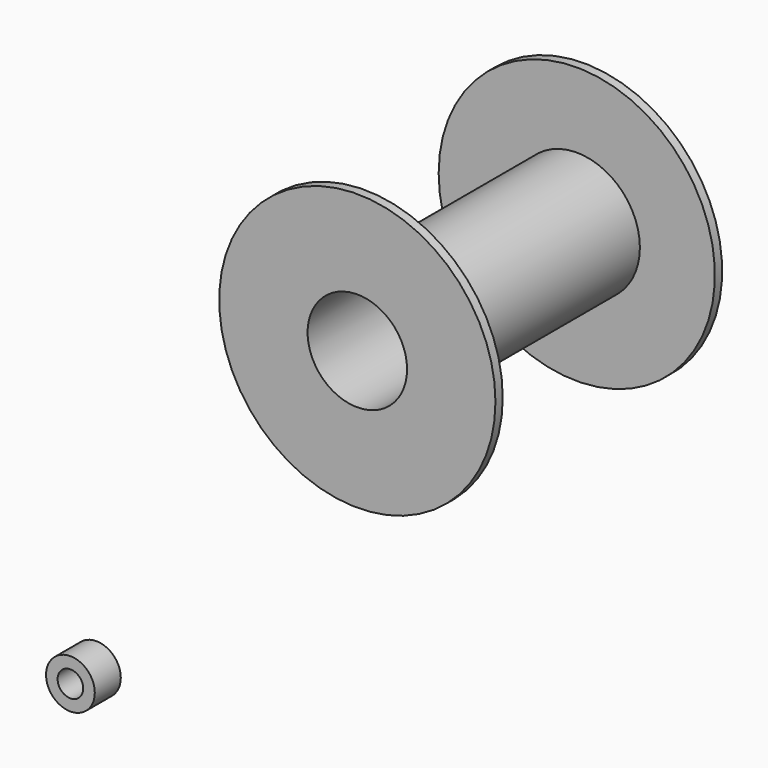
from build123d import *

# Parameters (mm, degrees)
F0_R     = 4.7625
F0_R_2   = 2.5
F1_DEPTH = 6.35
F2_R     = 10.8585
F2_R_2   = 9.7155
F3_DEPTH = 55.372
F4_R     = 26.9875
F4_R_2   = 9.7155
F5_DEPTH = 1.778
F6_R     = 26.9875
F6_R_2   = 9.7155
F7_DEPTH = 1.778
F8_R     = 12.328577
F8_R_2   = 10.8585
F9_DEPTH = 51.816


with BuildPart() as f1:
    # F0 (on Front) → F1 (new body)
    with BuildSketch(Plane.XZ):
        Circle(F0_R)
        Circle(F0_R_2, mode=Mode.SUBTRACT)
    extrude(amount=F1_DEPTH)


with BuildPart() as f3:
    # F2 (on Front) → F3 (new body)
    with BuildSketch(Plane.XZ):
        with Locations((95.277227, 108.182721)):
            Circle(F2_R)
        with Locations((95.277227, 108.182721)):
            Circle(F2_R_2, mode=Mode.SUBTRACT)
    extrude(amount=F3_DEPTH)

    # F4 (on face) → F5 (join)
    with BuildSketch(Plane.XZ.offset(55.372)):
        with Locations((95.277227, 108.182721)):
            Circle(F4_R)
        with Locations((95.277227, 108.182721)):
            Circle(F4_R_2, mode=Mode.SUBTRACT)
    extrude(amount=-F5_DEPTH)

    # F6 (on face) → F7 (join)
    with BuildSketch(Plane(origin=(0, 0, 0), x_dir=(-1, 0, 0), z_dir=(0, 1, 0))):
        with Locations((-95.277227, 108.182721)):
            Circle(F6_R)
        with Locations((-95.277227, 108.182721)):
            Circle(F6_R_2, mode=Mode.SUBTRACT)
    extrude(amount=-F7_DEPTH)


with BuildPart() as f9:
    # F8 (on face) → F9 (new body, through all)
    with BuildSketch(Plane.XZ.offset(1.778)):
        with Locations((95.277227, 108.182721)):
            Circle(F8_R)
        with Locations((95.277227, 108.182721)):
            Circle(F8_R_2, mode=Mode.SUBTRACT)
    extrude(amount=F9_DEPTH)


solid = Compound([f1.part, f3.part, f9.part])
